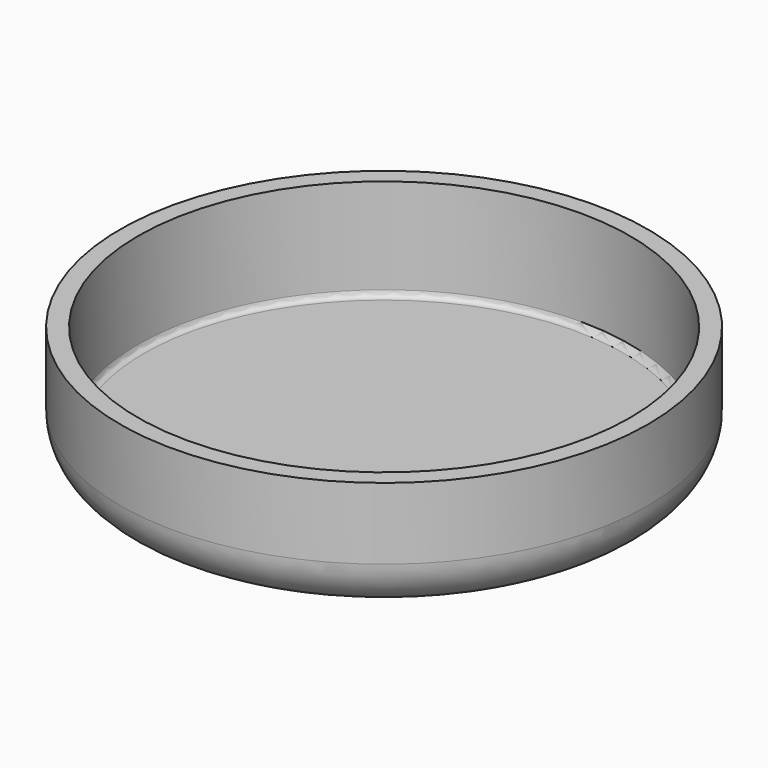
from build123d import *

# Parameters (mm, degrees)
F0_R     = 44.25
F1_DEPTH = 20
F2_R     = 41.25
F3_DEPTH = 17
F4_R     = 1
F5_R     = 8


with BuildPart() as f1:
    # F0 (on Top) → F1 (new body)
    with BuildSketch(Plane.XY):
        Circle(F0_R)
    extrude(amount=F1_DEPTH)

    # F2 (on face) → F3 (cut)
    with BuildSketch(Plane.XY.offset(20)):
        Circle(F2_R)
    extrude(amount=-F3_DEPTH, mode=Mode.SUBTRACT)

    # F4
    f4_edges = [f1.edges().sort_by_distance(p)[0] for p in [
        (-41.25, 0, 3),
    ]]
    fillet(f4_edges, radius=F4_R)

    # F5
    f5_edges = [f1.edges().sort_by_distance(p)[0] for p in [
        (-44.25, 0, 0),
    ]]
    fillet(f5_edges, radius=F5_R)


solid = f1.part
